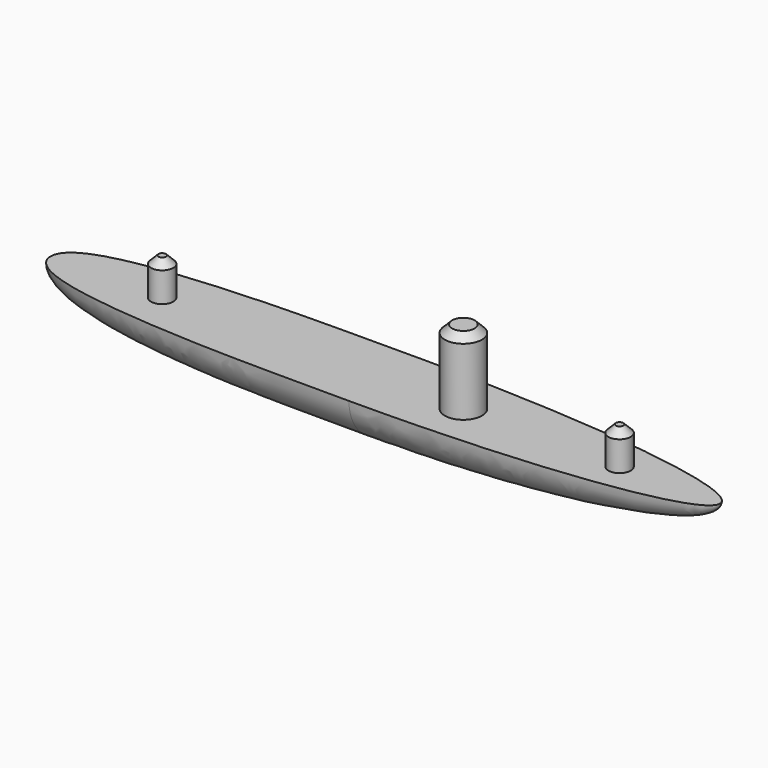
from build123d import *

# Parameters (mm, degrees)
F1_R      = 1.5
F2_DEPTH  = 5
F1_R_2    = 2.5
F3_DEPTH  = 10
F4_SIZE   = 1
F4_2_SIZE = 1
F5_SIZE   = 1
F6_ANGLE  = 180


with BuildPart() as f2:
    # F1 (on Top) → F2 (new body)
    with BuildSketch(Plane.XY):
        with Locations((-40.5, 0)):
            Circle(F1_R)
    extrude(amount=F2_DEPTH)

    # F4
    f4_edges = [f2.edges().sort_by_distance(p)[0] for p in [
        (-42, 0, 5),
    ]]
    chamfer(f4_edges, length=F4_SIZE)


with BuildPart() as f2b:
    # F1 (on Top) → F2, piece 2 (new body)
    with BuildSketch(Plane.XY):
        with Locations((21, 0)):
            Circle(F1_R)
    extrude(amount=F2_DEPTH)

    # F4#2
    f4_2_edges = [f2b.edges().sort_by_distance(p)[0] for p in [
        (19.5, 0, 5),
    ]]
    chamfer(f4_2_edges, length=F4_2_SIZE)


with BuildPart() as f3:
    # F1 (on Top) → F3 (new body)
    with BuildSketch(Plane.XY):
        Circle(F1_R_2)
    extrude(amount=F3_DEPTH)

    # F5
    f5_edges = [f3.edges().sort_by_distance(p)[0] for p in [
        (-2.5, 0, 10),
    ]]
    chamfer(f5_edges, length=F5_SIZE)


with BuildPart() as f6:
    # F0 (on Top) → F6 (revolve)
    with BuildSketch(Plane.XY):
        with BuildLine():
            add(Edge.make_bspline(
                [(-55.5, 0), (-55.5, 3.3347492572), (-37.4798085624, 6.3765749521), (-20.5, 6.05), (-10.5, 6.1)],
                knots=[0, 0, 0, 0, 0.4213241183, 1, 1, 1, 1], degree=3))
            Line((-55.5, 0), (34.5, 0))
            add(Edge.make_bspline(
                [(34.5, 0), (34.5, 6.1), (-10.5, 6.1)],
                knots=[3.1415926536, 3.1415926536, 3.1415926536, 4.7123889804, 4.7123889804, 4.7123889804], degree=2, weights=[1, 0.7071067812, 1]))
        make_face()
    revolve(axis=Axis((-10.5, 0, 0), (-1, 0, 0)), revolution_arc=F6_ANGLE)


solid = Compound([f2.part, f2b.part, f3.part, f6.part])
